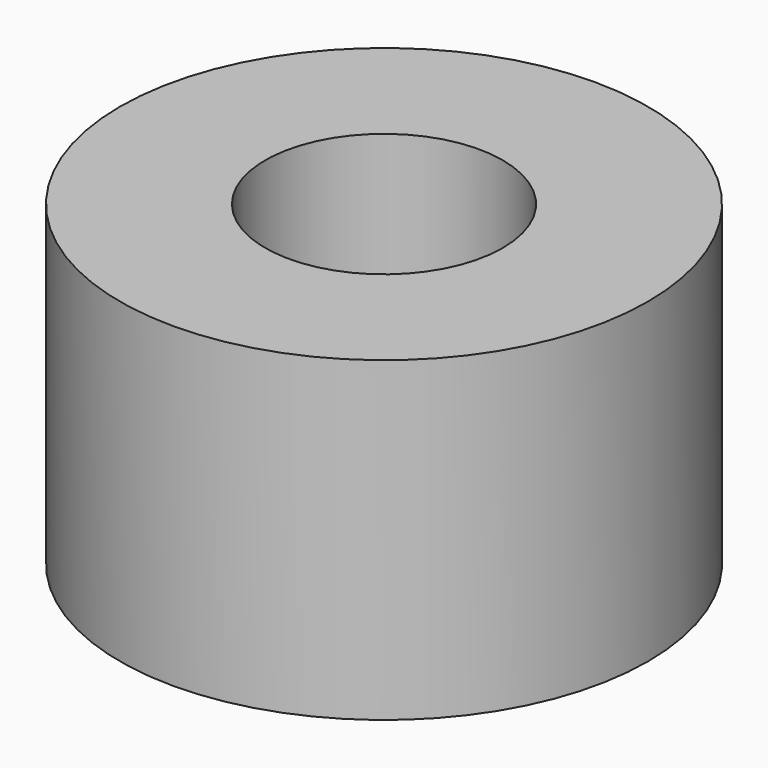
from build123d import *

# Parameters (mm, degrees)
SKETCH_R     = 5
PAD_DEPTH    = 6
SKETCH001_R  = 2.25
POCKET_DEPTH = 6.001


with BuildPart() as part:
    # Sketch → Pad (new body)
    with BuildSketch(Plane.XY):
        Circle(SKETCH_R)
    extrude(amount=PAD_DEPTH)

    # Sketch001 → Pocket (cut, through all)
    with BuildSketch(Plane.XY.offset(6)):
        Circle(SKETCH001_R)
    extrude(amount=-POCKET_DEPTH, mode=Mode.SUBTRACT)


solid = part.part
